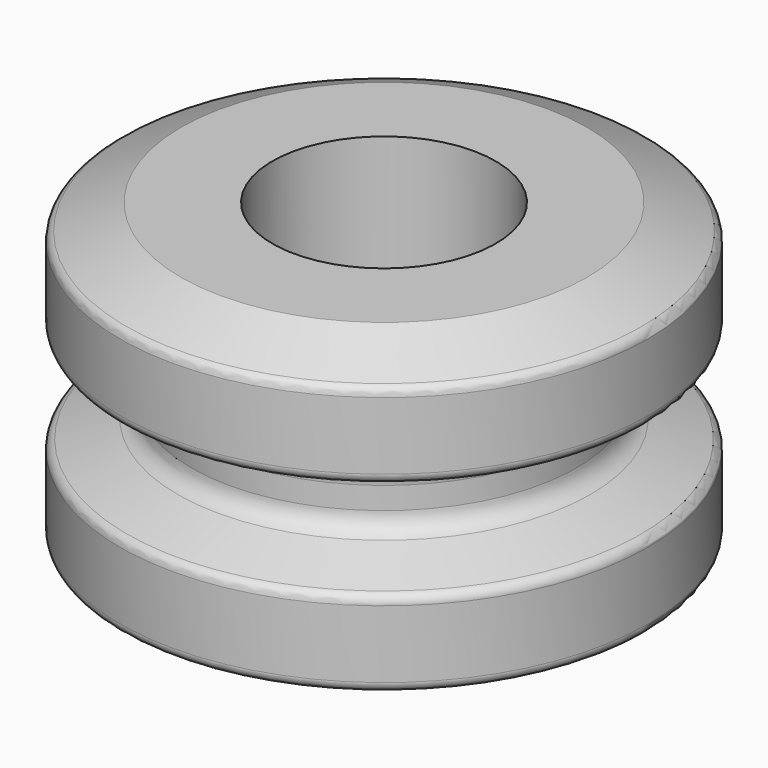
from build123d import *


with BuildPart() as f1:
    # F0 (on Right) → F1 (revolve)
    with BuildSketch(Plane.YZ):
        with BuildLine():
            Line((20, 15.75), (11, 15.75))
            Line((11, 15.75), (11, -15.75))
            Line((11, -15.75), (20, -15.75))
            Line((20, -15.75), (25.416655, -13.267367))
            ThreePointArc((25.416655, -13.267367), (25.841622, -12.898369), (26, -12.358302))
            Line((26, -12.358302), (26, -5.704719))
            ThreePointArc((26, -5.704719), (25.817416, -5.128671), (25.336336, -4.762977))
            Line((25.336336, -4.762977), (20.327327, -2.974045))
            ThreePointArc((20.327327, -2.974045), (19.365169, -2.242658), (19, -1.090562))
            Line((19, -1.090562), (19, 0))
            Line((19, 0), (19, 1.090562))
            ThreePointArc((19, 1.090562), (19.365169, 2.242658), (20.327327, 2.974045))
            Line((20.327327, 2.974045), (25.336336, 4.762977))
            ThreePointArc((25.336336, 4.762977), (25.817416, 5.128671), (26, 5.704719))
            Line((26, 5.704719), (26, 12.358302))
            ThreePointArc((26, 12.358302), (25.841622, 12.898369), (25.416655, 13.267367))
            Line((25.416655, 13.267367), (20, 15.75))
        make_face()
    revolve(axis=Axis((0, 0, 0.936903), (0, 0, -1)))


solid = f1.part
